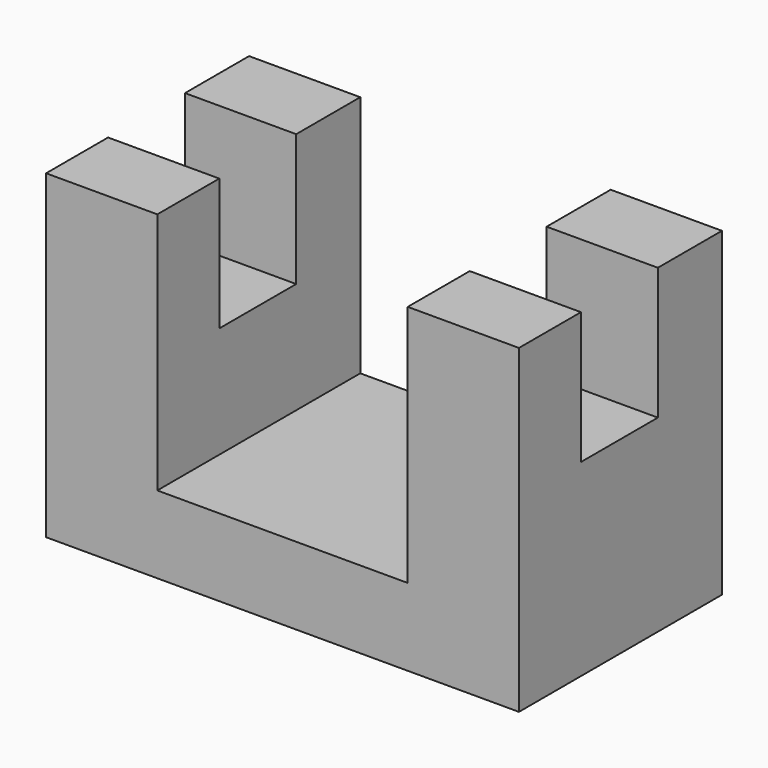
from build123d import *

# Parameters (mm, degrees)
F1_DEPTH = 31.75
F2_W     = 14.346282
F2_H     = 12.032199
F2_W_2   = 14.346281
F3_DEPTH = 16.51


with BuildPart() as f1:
    # F0 (on Front) → F1 (new body)
    with BuildSketch(Plane.XZ):
        Polygon((0, 40.097181), (0, 0), (59.177903, 0), (59.177903, 40.097181), (45.259114, 40.097181), (45.259114, 9.677851), (13.918789, 9.677851), (13.918789, 40.097181), align=None)
    extrude(amount=F1_DEPTH)

    # F2 (on face) → F3 (cut)
    with BuildSketch(Plane.XY.offset(40.097181)):
        with Locations((52.432255, -16.037456)):
            Rectangle(F2_W, F2_H)
        with Locations((6.952342, -16.037456)):
            Rectangle(F2_W_2, F2_H)
    extrude(amount=-F3_DEPTH, mode=Mode.SUBTRACT)


solid = f1.part
